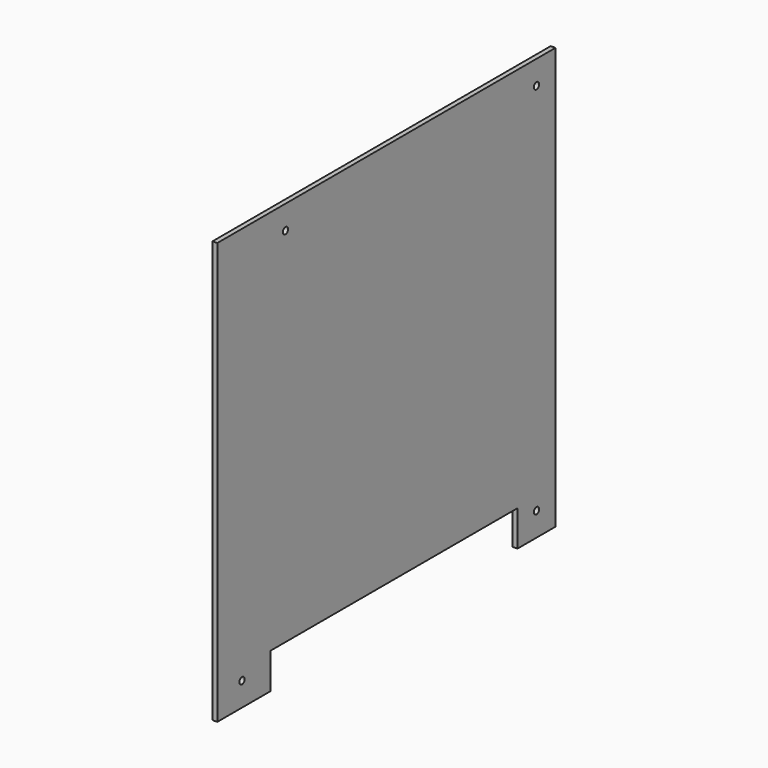
from build123d import *

# Parameters (mm, degrees)
F0_R     = 1.39323
F1_DEPTH = 2


with BuildPart() as f1:
    # F0 (on Right) → F1 (new body)
    with BuildSketch(Plane.YZ):
        Polygon((94.281496, 89.68124), (-83.678504, 89.68124), (-83.678504, -87.79876), (-55.718504, -87.79876), (-55.718504, -72.79876), (74.281496, -72.79876), (74.281496, -87.79876), (94.281496, -87.79876), align=None)
        with Locations((-70.678504, -77.79876)):
            Circle(F0_R, mode=Mode.SUBTRACT)
        with Locations((84.281496, -77.79876)):
            Circle(F0_R, mode=Mode.SUBTRACT)
        with Locations((-47.818504, 79.68124)):
            Circle(F0_R, mode=Mode.SUBTRACT)
        with Locations((84.281496, 79.68124)):
            Circle(F0_R, mode=Mode.SUBTRACT)
    extrude(amount=F1_DEPTH)


solid = f1.part
